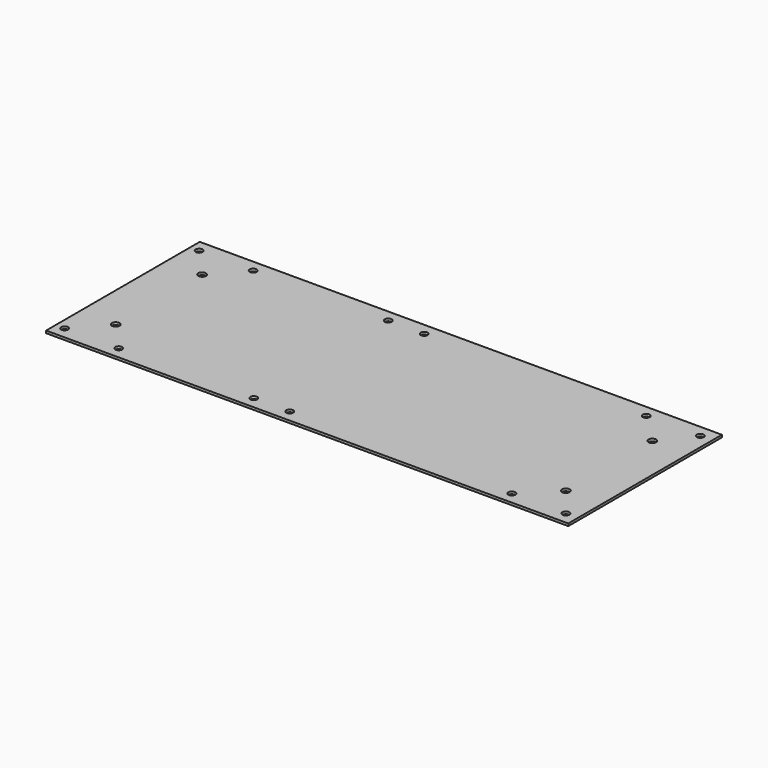
from build123d import *

# Parameters (mm, degrees)
SKETCH040_W   = 435
SKETCH040_H   = 160
PAD014_DEPTH  = 2
SKETCH041_R   = 2.9
HOLE014_DEPTH = 25
SKETCH042_R   = 3.2
HOLE015_DEPTH = 25


with BuildPart() as part:
    # Sketch040 → Pad014 (new body)
    with BuildSketch(Plane.XY):
        with Locations((302.5, -85)):
            Rectangle(SKETCH040_W, SKETCH040_H)
    extrude(amount=PAD014_DEPTH)

    # Sketch041 → Hole014 (cut)
    with BuildSketch(Plane.XY):
        with Locations((92.5, -15)):
            Circle(SKETCH041_R)
        with Locations((250, -15)):
            Circle(SKETCH041_R)
        with Locations((280, -15)):
            Circle(SKETCH041_R)
        with Locations((280, -155)):
            Circle(SKETCH041_R)
        with Locations((250, -155)):
            Circle(SKETCH041_R)
        with Locations((92.5, -155)):
            Circle(SKETCH041_R)
        with Locations((510, -15)):
            Circle(SKETCH041_R)
        with Locations((510, -155)):
            Circle(SKETCH041_R)
        with Locations((137.5, -15)):
            Circle(SKETCH041_R)
        with Locations((137.5, -155)):
            Circle(SKETCH041_R)
        with Locations((465, -15)):
            Circle(SKETCH041_R)
        with Locations((465, -155)):
            Circle(SKETCH041_R)
    extrude(amount=HOLE014_DEPTH, mode=Mode.SUBTRACT)

    # Sketch042 → Hole015 (cut)
    with BuildSketch(Plane.XY):
        with Locations((490, -40)):
            Circle(SKETCH042_R)
        with Locations((490, -130)):
            Circle(SKETCH042_R)
        with Locations((115, -40)):
            Circle(SKETCH042_R)
        with Locations((115, -130)):
            Circle(SKETCH042_R)
    extrude(amount=HOLE015_DEPTH, mode=Mode.SUBTRACT)


with BuildPart() as part_1:
    # Body006 placement: moved
    add(part.part.moved(Location((0, 0, 65))))


solid = part_1.part
